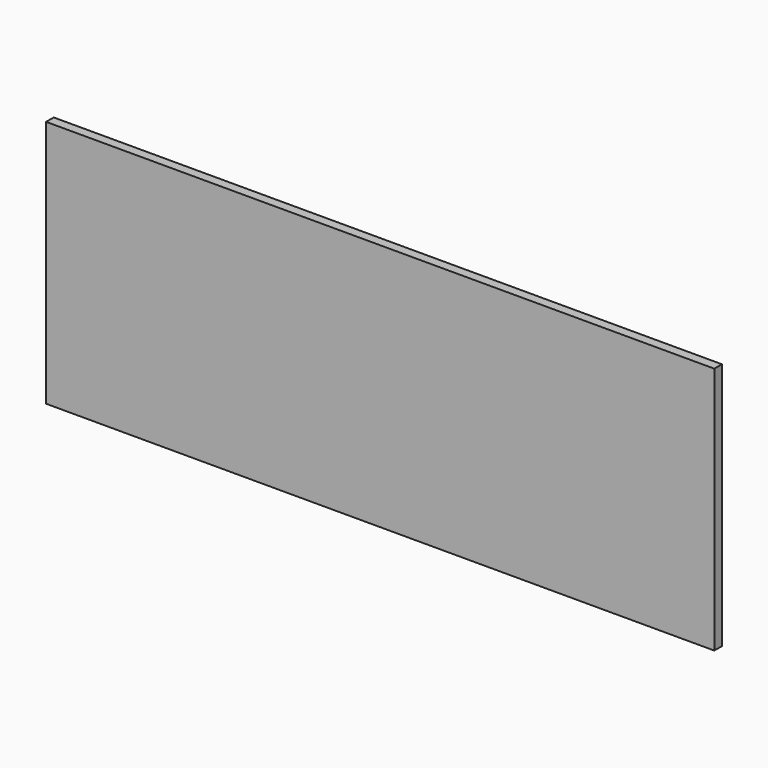
from build123d import *

# Parameters (mm, degrees)
F0_W      = 444.5
F0_H      = 165.1
F1_DEPTH  = 12.7
F1_FACE_W = 444.5
F1_FACE_H = 165.1
F2_DEPTH  = 6.35


with BuildPart() as f1:
    # F0 (on Front) → F1 (new body)
    with BuildSketch(Plane.XZ):
        with Locations((-18.643875, 9.982784)):
            Rectangle(F0_W, F0_H)
    extrude(amount=F1_DEPTH)

    # F1_face (on face) → F2 (cut)
    with BuildSketch(Plane(origin=(-18.643875, -12.7, 9.982784), x_dir=(1, 0, 0), z_dir=(0, -1, 0))):
        Rectangle(F1_FACE_W, F1_FACE_H)
    extrude(amount=-F2_DEPTH, mode=Mode.SUBTRACT)


solid = f1.part
